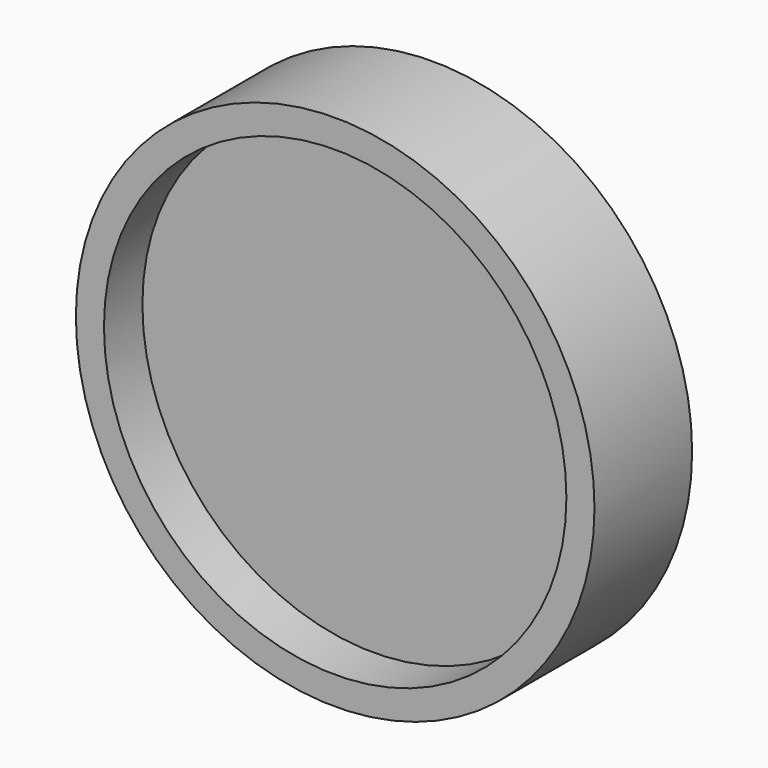
from build123d import *

# Parameters (mm, degrees)
F0_R     = 137.07557
F1_DEPTH = 64.516
F2_R     = 122.229909
F3_DEPTH = 25.4
F4_W     = 57.010982
F4_H     = 185.052022
F5_DEPTH = 25.4


with BuildPart() as f1:
    # F0 (on Front) → F1 (new body)
    with BuildSketch(Plane.XZ):
        Circle(F0_R)
    extrude(amount=F1_DEPTH)

    # F2 (on face) → F3 (cut)
    with BuildSketch(Plane.XZ.offset(64.516)):
        Circle(F2_R)
    extrude(amount=-F3_DEPTH, mode=Mode.SUBTRACT)

    # F4 (on face) → F5 (join)
    with BuildSketch(Plane(origin=(0, 0, 0), x_dir=(-1, 0, 0), z_dir=(0, 1, 0))):
        Rectangle(F4_W, F4_H)
    extrude(amount=F5_DEPTH)


solid = f1.part
